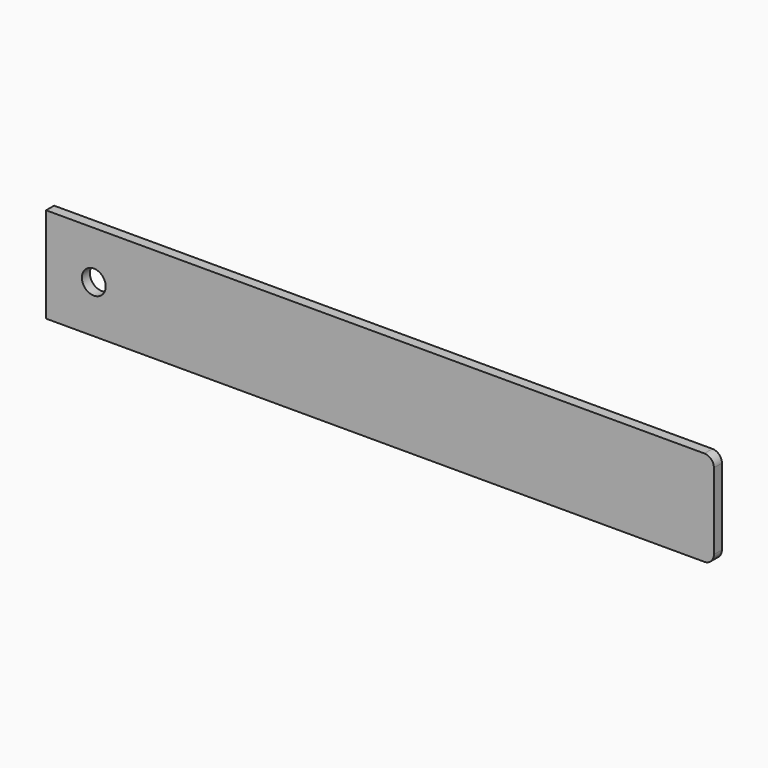
from build123d import *

# Parameters (mm, degrees)
F0_W     = 355.6
F0_H     = 50.8
F0_R     = 6.35
F1_DEPTH = 5.334
F2_R     = 5.08


with BuildPart() as f1:
    # F0 (on Front) → F1 (new body)
    with BuildSketch(Plane.XZ):
        with Locations((24.519738, 44.542606)):
            Rectangle(F0_W, F0_H)
        with Locations((-127.880262, 44.542606)):
            Circle(F0_R, mode=Mode.SUBTRACT)
    extrude(amount=F1_DEPTH)

    # F2
    f2_edges = [f1.edges().sort_by_distance(p)[0] for p in [
        (202.319738, -2.667, 69.942606),
        (202.319738, -2.667, 19.142606),
    ]]
    fillet(f2_edges, radius=F2_R)


solid = f1.part
